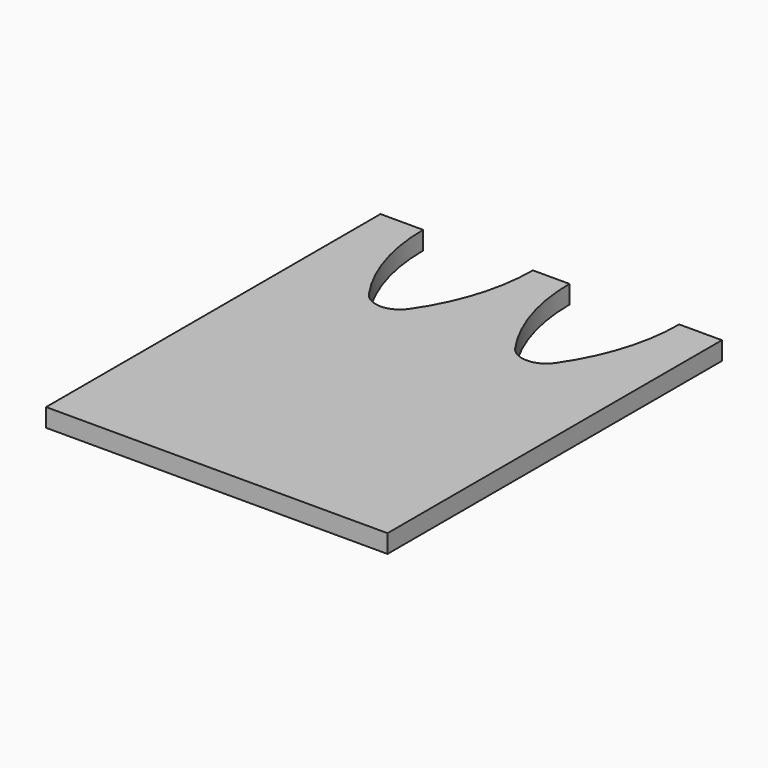
from build123d import *

# Parameters (mm, degrees)
F1_W     = 355.6
F1_H     = 435.326967
F2_DEPTH = 19.05
F3_DEPTH = 19.051


with BuildPart() as f2:
    # F1 (on Top) → F2 (new body)
    with BuildSketch(Plane.XY):
        with Locations((0, -217.663483)):
            Rectangle(F1_W, F1_H)
    extrude(amount=-F2_DEPTH)

    # F0 (on Top) → F3 (cut, through all)
    with BuildSketch(Plane.XY):
        with BuildLine():
            ThreePointArc((-97.080427, -116.062633), (-76.2, -127), (-55.319573, -116.062633))
            ThreePointArc((-55.319573, -116.062633), (-28.328574, -60.798883), (-19.05, 0))
            ThreePointArc((-19.05, 0), (-76.2, 57.15), (-133.35, 0))
            ThreePointArc((-133.35, 0), (-124.071426, -60.798883), (-97.080427, -116.062633))
        make_face()
        with BuildLine():
            ThreePointArc((19.05, 0), (28.328574, -60.798883), (55.319573, -116.062633))
            ThreePointArc((55.319573, -116.062633), (76.2, -127), (97.080427, -116.062633))
            ThreePointArc((97.080427, -116.062633), (124.071426, -60.798883), (133.35, 0))
            ThreePointArc((133.35, 0), (76.2, 57.15), (19.05, 0))
        make_face()
    extrude(amount=-F3_DEPTH, mode=Mode.SUBTRACT)


solid = f2.part
